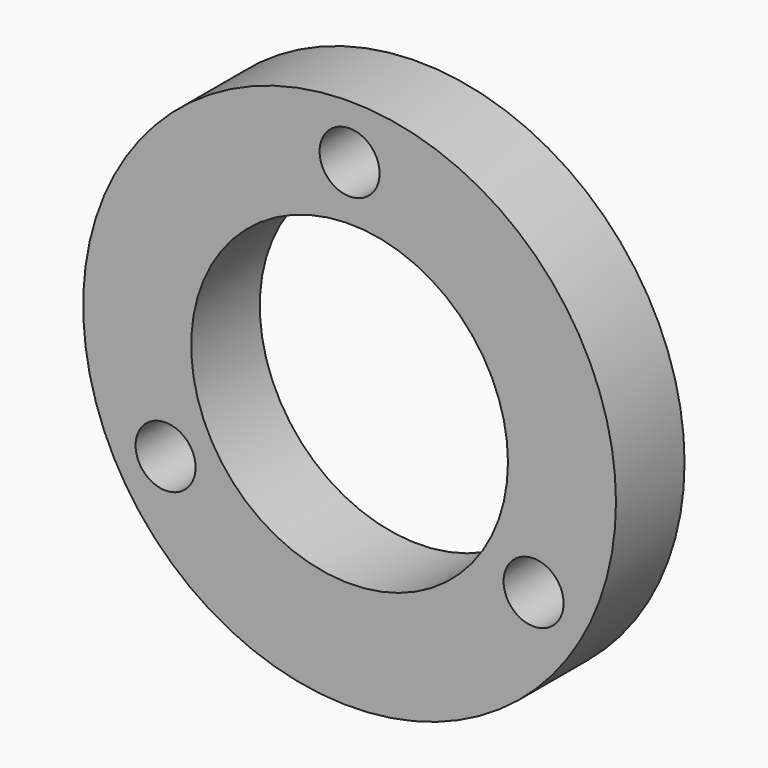
from build123d import *

# Parameters (mm, degrees)
F0_R     = 31.075
F0_R_2   = 18.475
F1_DEPTH = 10
F2_R     = 3.5
F3_DEPTH = 10


with BuildPart() as f1:
    # F0 (on Front) → F1 (new body)
    with BuildSketch(Plane.XZ):
        Circle(F0_R)
        Circle(F0_R_2, mode=Mode.SUBTRACT)
    extrude(amount=F1_DEPTH)

    # F2 (on Front) → F3 (cut)
    with BuildSketch(Plane.XZ):
        with Locations((0, 24.784386)):
            Circle(F2_R)
        with Locations((21.463908, -12.392193)):
            Circle(F2_R)
        with Locations((-21.463908, -12.392193)):
            Circle(F2_R)
    extrude(amount=F3_DEPTH, mode=Mode.SUBTRACT)


solid = f1.part
